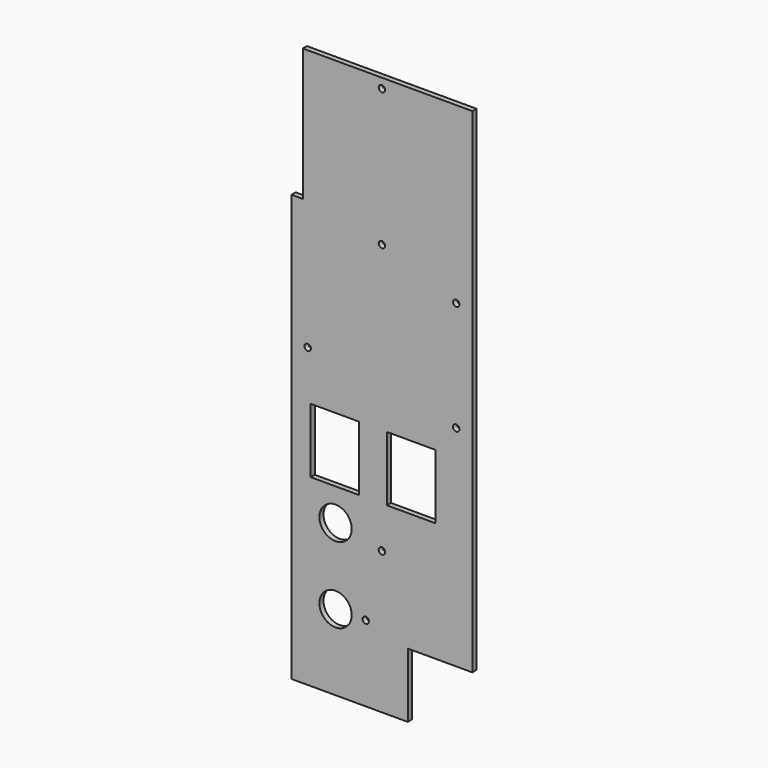
from build123d import *

# Parameters (mm, degrees)
F0_R     = 5
F0_W     = 15
F0_H     = 20
F1_DEPTH = 1.6
F2_R     = 1
F3_DEPTH = 25


with BuildPart() as f1:
    # F0 (on Front) → F1 (new body)
    with BuildSketch(Plane.XZ):
        Polygon((28, 71), (-24.5, 71), (-24.5, 30), (-28, 30), (-28, -102), (8, -102), (8, -82), (28, -82), align=None)
        with Locations((-14.37, -78.52)):
            Circle(F0_R, mode=Mode.SUBTRACT)
        with Locations((-14.37, -55.02)):
            Circle(F0_R, mode=Mode.SUBTRACT)
        with Locations((-14.58, -35.06)):
            Rectangle(F0_W, F0_H, mode=Mode.SUBTRACT)
        Polygon((1.52, -25.06), (9.02, -25.06), (16.52, -25.06), (16.52, -45.06), (9.02, -45.06), (1.52, -45.06), align=None, mode=Mode.SUBTRACT)
    extrude(amount=-F1_DEPTH)

    # F2 (on face) → F3 (cut)
    with BuildSketch(Plane.XZ):
        with Locations((0, 25.5)):
            Circle(F2_R)
        with Locations((0, 68)):
            Circle(F2_R)
        with Locations((23, 17)):
            Circle(F2_R)
        with Locations((23, -17)):
            Circle(F2_R)
        with Locations((-23, -10)):
            Circle(F2_R)
        with Locations((0, -58)):
            Circle(F2_R)
        with Locations((-5, -78.5)):
            Circle(F2_R)
    extrude(amount=-F3_DEPTH, mode=Mode.SUBTRACT)


solid = f1.part
